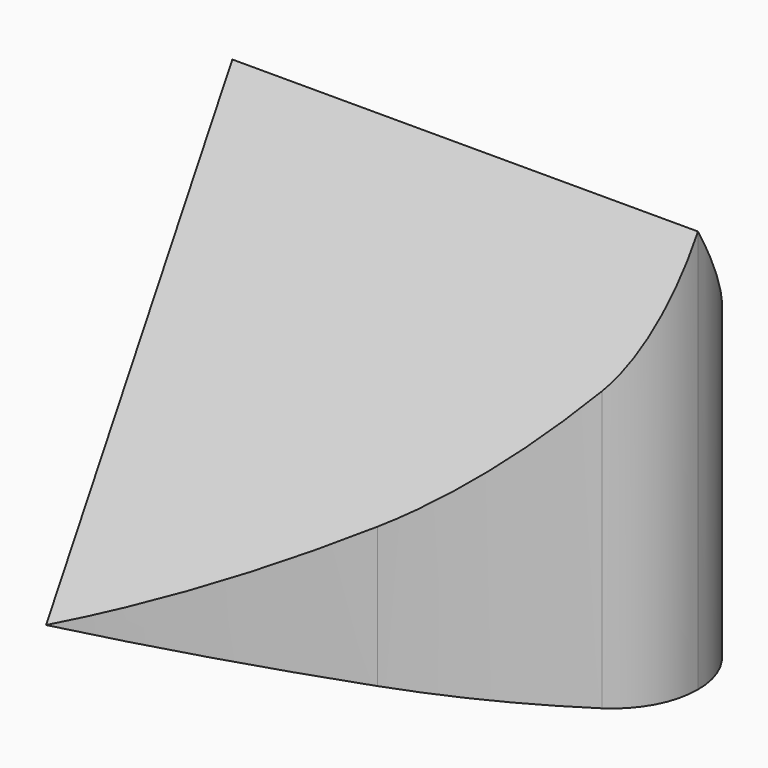
from build123d import *

# Parameters (mm, degrees)
F1_DEPTH = 87.988191
F3_DEPTH = 101.6


with BuildPart() as f1:
    # F0 (on Top) → F1 (new body)
    with BuildSketch(Plane.XY):
        with BuildLine():
            ThreePointArc((-43.423142, -33.114754), (-25.4, -25.4), (-8.414312, -15.610339))
            ThreePointArc((-8.414312, -15.610339), (-2.237533, -8.866839), (0, 0))
            Line((0, 0), (-101.6, 0))
            Line((-101.6, 0), (-101.6, -50.8))
            ThreePointArc((-101.6, -50.8), (-72.289859, -42.686713), (-43.423142, -33.114754))
        make_face()
        with BuildLine():
            Line((-101.6, 0), (0, 0))
            ThreePointArc((0, 0), (-2.237533, 8.866839), (-8.414312, 15.610339))
            ThreePointArc((-8.414312, 15.610339), (-25.4, 25.4), (-43.423142, 33.114754))
            ThreePointArc((-43.423142, 33.114754), (-72.289859, 42.686713), (-101.6, 50.8))
            Line((-101.6, 50.8), (-101.6, 0))
        make_face()
    extrude(amount=F1_DEPTH)

    # F2 (on face) → F3 (cut)
    with BuildSketch(Plane(origin=(-101.6, 0, 0), x_dir=(0, -1, 0), z_dir=(-1, 0, 0))):
        Polygon((50.8, 87.988191), (0, 87.988191), (50.8, 0), align=None)
        Polygon((0, 87.988191), (-50.8, 87.988191), (-50.8, 0), align=None)
    extrude(amount=-F3_DEPTH, mode=Mode.SUBTRACT)


solid = f1.part
